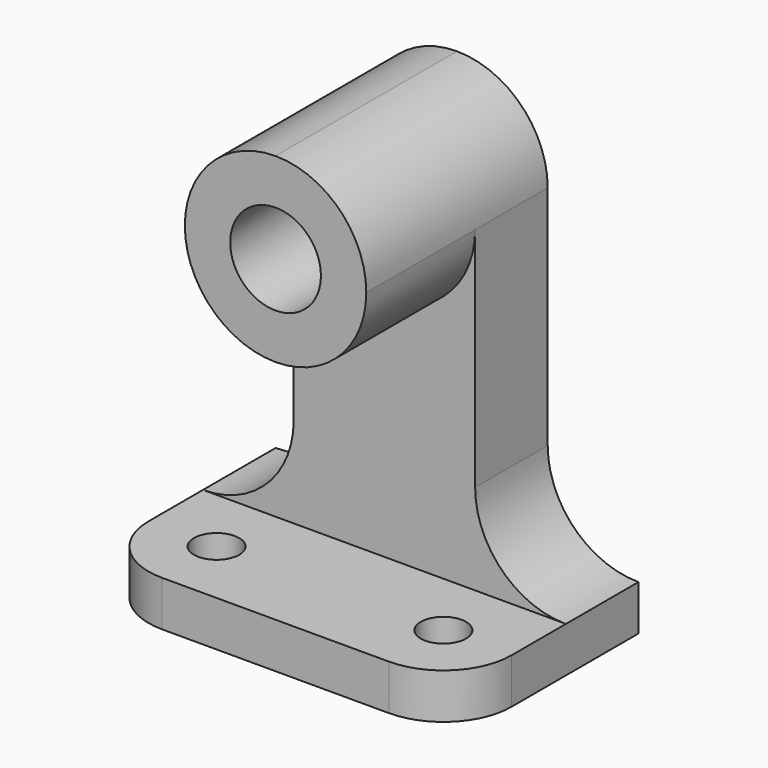
from build123d import *

# Parameters (mm, degrees)
F0_W     = 50.8
F0_H     = 63.5
F1_DEPTH = 31.75
F3_DEPTH = 31.751
F5_DEPTH = 19.05
F6_R     = 3.175
F7_DEPTH = 25.4
F8_R     = 6.35
F9_DEPTH = 31.751


with BuildPart() as f1:
    # F0 (on Front) → F1 (new body)
    with BuildSketch(Plane.XZ):
        with Locations((-43.838402, 38.215244)):
            Rectangle(F0_W, F0_H)
    extrude(amount=F1_DEPTH)

    # F2 (on face) → F3 (cut, through all)
    with BuildSketch(Plane(origin=(0, 0, 0), x_dir=(-1, 0, 0), z_dir=(0, 1, 0))):
        with BuildLine():
            Line((18.438402, 69.965244), (18.438402, 12.815244))
            ThreePointArc((18.438402, 12.815244), (27.418658, 16.534988), (31.138402, 25.515244))
            Line((31.138402, 25.515244), (31.138402, 57.265244))
            ThreePointArc((31.138402, 57.265244), (34.858146, 66.2455), (43.838402, 69.965244))
            Line((43.838402, 69.965244), (18.438402, 69.965244))
        make_face()
        with BuildLine():
            ThreePointArc((56.538402, 25.515244), (60.258146, 16.534988), (69.238402, 12.815244))
            Line((69.238402, 12.815244), (69.238402, 69.965244))
            Line((69.238402, 69.965244), (43.838402, 69.965244))
            ThreePointArc((43.838402, 69.965244), (52.818658, 66.2455), (56.538402, 57.265244))
            Line((56.538402, 57.265244), (56.538402, 25.515244))
        make_face()
    extrude(amount=-F3_DEPTH, mode=Mode.SUBTRACT)

    # F4 (on face) → F5 (cut)
    with BuildSketch(Plane.XZ.offset(31.75)):
        with BuildLine():
            ThreePointArc((-56.538402, 25.515244), (-60.258146, 16.534988), (-69.238402, 12.815244))
            Line((-69.238402, 12.815244), (-18.438402, 12.815244))
            ThreePointArc((-18.438402, 12.815244), (-27.418658, 16.534988), (-31.138402, 25.515244))
            Line((-31.138402, 25.515244), (-31.138402, 57.265244))
            ThreePointArc((-31.138402, 57.265244), (-43.838402, 44.565244), (-56.538402, 57.265244))
            Line((-56.538402, 57.265244), (-56.538402, 25.515244))
        make_face()
    extrude(amount=-F5_DEPTH, mode=Mode.SUBTRACT)

    # F6 (on face) → F7 (cut)
    with BuildSketch(Plane.XY.offset(12.815244)):
        with Locations((-27.963402, -22.225)):
            Circle(F6_R)
        with Locations((-59.713402, -22.225)):
            Circle(F6_R)
        with BuildLine():
            Line((-69.238402, -31.75), (-59.713402, -31.75))
            ThreePointArc((-59.713402, -31.75), (-66.448594, -28.960192), (-69.238402, -22.225))
            Line((-69.238402, -22.225), (-69.238402, -31.75))
        make_face()
        with BuildLine():
            ThreePointArc((-18.438402, -22.225), (-21.22821, -28.960192), (-27.963402, -31.75))
            Line((-27.963402, -31.75), (-18.438402, -31.75))
            Line((-18.438402, -31.75), (-18.438402, -22.225))
        make_face()
    extrude(amount=-F7_DEPTH, mode=Mode.SUBTRACT)

    # F8 (on face) → F9 (cut, through all)
    with BuildSketch(Plane.XZ.offset(31.75)):
        with Locations((-43.83729, 57.265244)):
            Circle(F8_R)
    extrude(amount=-F9_DEPTH, mode=Mode.SUBTRACT)


solid = f1.part
